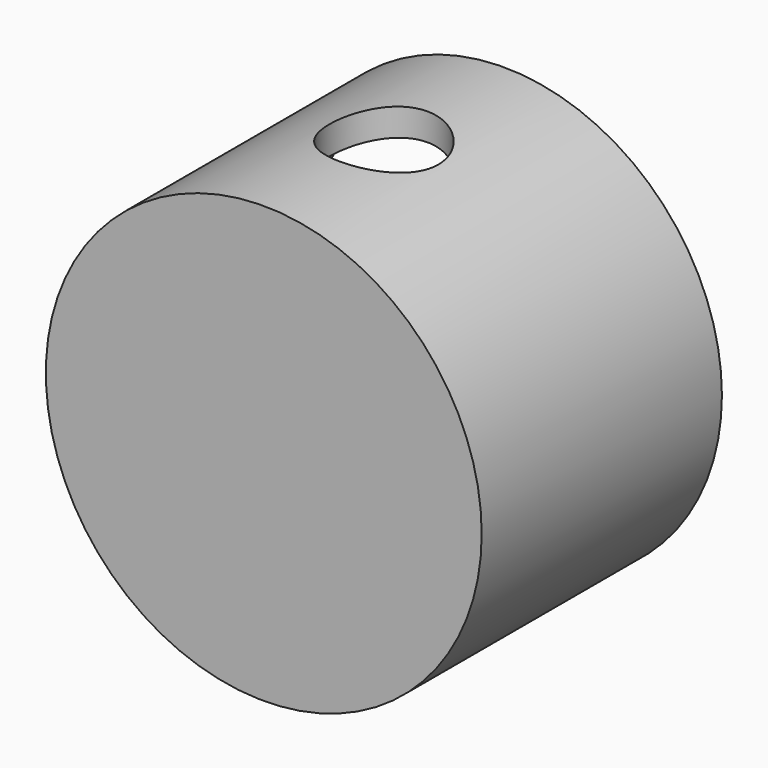
from build123d import *

# Parameters (mm, degrees)
F0_R      = 50.8
F1_DEPTH  = 35
F2_R      = 44.45
F3_DEPTH  = 82.563922
F3_FACE_R = 44.45
F4_DEPTH  = 25.4
F5_R      = 12.7
F6_DEPTH  = 71.218602


with BuildPart() as f1:
    # F0 (on Front) → F1 (new body, symmetric)
    with BuildSketch(Plane.XZ):
        Circle(F0_R)
    extrude(amount=F1_DEPTH, both=True)

    # F2 (on Front) → F3 (cut)
    with BuildSketch(Plane.XZ):
        Circle(F2_R)
    extrude(amount=-F3_DEPTH, mode=Mode.SUBTRACT)

    # F3_face (on face) → F4 (cut)
    with BuildSketch(Plane(origin=(0, 0, 0), x_dir=(1, 0, 0), z_dir=(0, 1, 0))):
        Circle(F3_FACE_R)
    extrude(amount=-F4_DEPTH, mode=Mode.SUBTRACT)

    # F5 (on Top) → F6 (cut, symmetric)
    with BuildSketch(Plane.XY):
        Circle(F5_R)
    extrude(amount=F6_DEPTH, both=True, mode=Mode.SUBTRACT)


solid = f1.part
